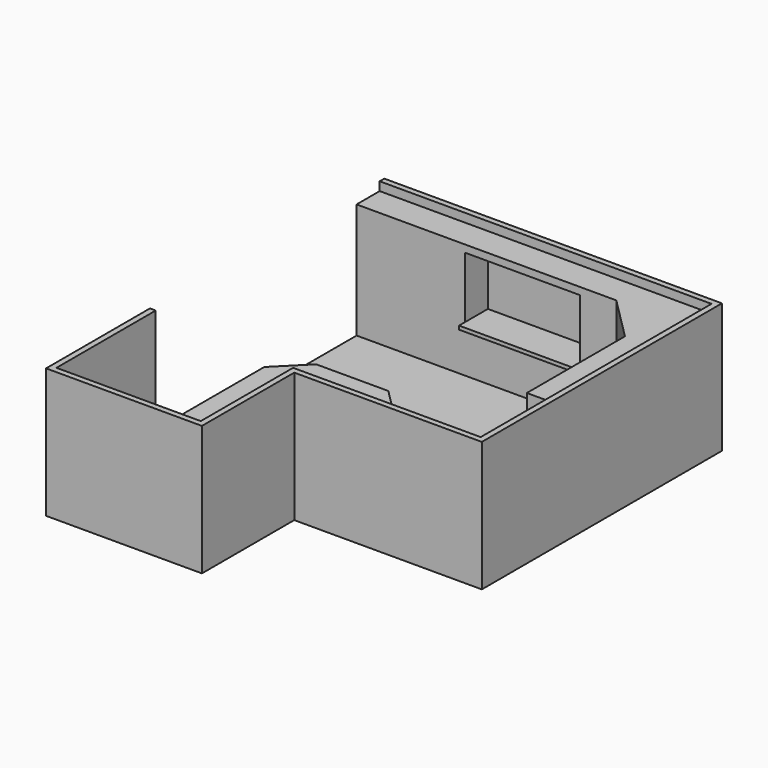
from build123d import *

# Parameters (mm, degrees)
F0_W      = 146.05
F0_H      = 127
F1_DEPTH  = 2.54
F2_W      = 146.05
F2_H      = 12.7
F3_DEPTH  = 50.8
F5_W      = 50.8
F5_H      = 28.575
F6_DEPTH  = 12.7
F7_W      = 50.8
F7_H      = 3.175
F7_H_2    = 12.7
F8_DEPTH  = 1.5875
F9_W      = 63.5
F9_H      = 50.8
F10_DEPTH = 2.54
F11_W     = 12.7
F11_H     = 73.025
F12_DEPTH = 50.8
F13_W     = 148.59
F13_H     = 2.54
F15_DEPTH = 57.15
F14_W     = 2.54
F14_H     = 127
F16_DEPTH = 57.15
F18_DEPTH = 50.8
F19_W     = 31.75
F19_H     = 12.7
F20_DEPTH = 50.8
F22_DEPTH = 50.8
F24_DEPTH = 50.8
F25_W     = 12.68959
F25_H     = 50.8
F26_DEPTH = 50.8
F4_W      = 15.875
F4_H      = 15.875
F27_DEPTH = 38.1
F28_W     = 85.09
F28_H     = 2.54
F29_DEPTH = 57.15
F30_W     = 2.54
F30_H     = 50.8
F32_DEPTH = 57.15
F31_W     = 63.5
F31_H     = 2.54
F33_DEPTH = 57.15
F34_W     = 2.54
F34_H     = 57.15
F35_DEPTH = 57.15


with BuildPart() as f1:
    # F0 (on Top) → F1 (new body)
    with BuildSketch(Plane.XY):
        Rectangle(F0_W, F0_H)
    extrude(amount=F1_DEPTH)

    # F2 (on face) → F3 (join)
    with BuildSketch(Plane.XY.offset(2.54)):
        with Locations((0, 57.15)):
            Rectangle(F2_W, F2_H)
    extrude(amount=F3_DEPTH)

    # F5 (on face) → F6 (cut)
    with BuildSketch(Plane.XZ.offset(-50.8)):
        with Locations((0, 35.8775)):
            Rectangle(F5_W, F5_H)
    extrude(amount=-F6_DEPTH, mode=Mode.SUBTRACT)

    # F7 (on face) → F8 (join)
    with BuildSketch(Plane.XY.offset(21.59)):
        with Locations((0, 49.2125)):
            Rectangle(F7_W, F7_H)
        with Locations((0, 57.15)):
            Rectangle(F7_W, F7_H_2)
    extrude(amount=F8_DEPTH)

    # F9 (on Top) → F10 (join)
    with BuildSketch(Plane.XY):
        with Locations((-41.275, -88.9)):
            Rectangle(F9_W, F9_H)
    extrude(amount=F10_DEPTH)

    # F11 (on face) → F12 (join)
    with BuildSketch(Plane.XY.offset(2.54)):
        with Locations((66.675, 14.2875)):
            Rectangle(F11_W, F11_H)
    extrude(amount=F12_DEPTH)

    # F13 (on Top) → F15 (join)
    with BuildSketch(Plane.XY):
        with Locations((1.27, 64.77)):
            Rectangle(F13_W, F13_H)
    extrude(amount=F15_DEPTH)

    # F14 (on Top) → F16 (join)
    with BuildSketch(Plane.XY):
        with Locations((74.295, 0)):
            Rectangle(F14_W, F14_H)
    extrude(amount=F16_DEPTH)

    # F17 (on face) → F18 (join)
    with BuildSketch(Plane.XY.offset(2.54)):
        Polygon((60.325, 31.75), (60.325, 50.8), (41.275, 50.8), align=None)
    extrude(amount=F18_DEPTH)

    # F19 (on face) → F20 (join)
    with BuildSketch(Plane.XY.offset(2.54)):
        with Locations((6.35, -57.15)):
            Rectangle(F19_W, F19_H)
    extrude(amount=F20_DEPTH)

    # F21 (on face) → F22 (join)
    with BuildSketch(Plane.XY.offset(2.54)):
        Polygon((34.925, -63.5), (22.225, -50.8), (22.225, -63.5), align=None)
    extrude(amount=F22_DEPTH)

    # F23 (on face) → F24 (join)
    with BuildSketch(Plane.XY.offset(2.54)):
        Polygon((-9.525, -63.5), (-9.525, -50.8), (-22.21459, -63.5), align=None)
    extrude(amount=F24_DEPTH)

    # F25 (on face) → F26 (join)
    with BuildSketch(Plane.XY.offset(2.54)):
        with Locations((-15.869795, -88.9)):
            Rectangle(F25_W, F25_H)
    extrude(amount=F26_DEPTH)

    # F4 (on face) → F27 (join)
    with BuildSketch(Plane.XY.offset(2.54)):
        with Locations((65.0875, -36.5125)):
            Rectangle(F4_W, F4_H)
    extrude(amount=F27_DEPTH)

    # F28 (on Top) → F29 (join)
    with BuildSketch(Plane.XY):
        with Locations((33.02, -64.77)):
            Rectangle(F28_W, F28_H)
    extrude(amount=F29_DEPTH)

    # F30 (on Top) → F32 (join)
    with BuildSketch(Plane.XY):
        with Locations((-8.255, -91.44)):
            Rectangle(F30_W, F30_H)
    extrude(amount=F32_DEPTH)

    # F31 (on Top) → F33 (join)
    with BuildSketch(Plane.XY):
        with Locations((-41.275, -115.57)):
            Rectangle(F31_W, F31_H)
    extrude(amount=F33_DEPTH)

    # F34 (on Top) → F35 (join)
    with BuildSketch(Plane.XY):
        with Locations((-74.295, -88.265)):
            Rectangle(F34_W, F34_H)
    extrude(amount=F35_DEPTH)


solid = f1.part
